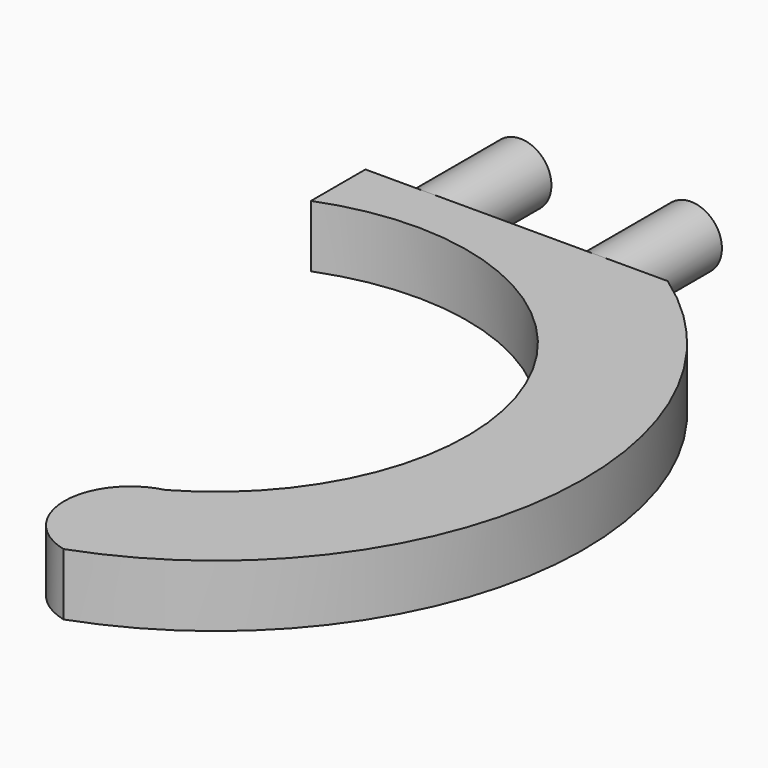
from build123d import *

# Parameters (mm, degrees)
BOX_W                  = 39
BOX_H                  = 3
BOX_DEPTH              = 8
CYLINDER_R             = 4
CYLINDER_DEPTH         = 15
CYLINDER_ROLL_ANGLE    = 90
CYLINDER001_R          = 4
CYLINDER001_DEPTH      = 15
CYLINDER001_ROLL_ANGLE = 90
PAD_DEPTH              = 8


with BuildPart() as base:
    # Box → Box (new body)
    with BuildSketch(Plane(origin=(-8, -18, -4), x_dir=(1, 0, 0), z_dir=(0, 0, 1))):
        with Locations((19.5, 1.5)):
            Rectangle(BOX_W, BOX_H)
    extrude(amount=BOX_DEPTH)


with BuildPart() as pin2:
    # Cylinder → Cylinder (new body)
    with BuildSketch(Plane.XY):
        Circle(CYLINDER_R)
    extrude(amount=CYLINDER_DEPTH)


with BuildPart() as pin2_1:
    # Cylinder roll: moved
    add(pin2.part.rotate(Axis((0, 0, 0), (1, 0, 0)), CYLINDER_ROLL_ANGLE))


with BuildPart() as pin2_2:
    # Cylinder placement: moved
    add(pin2_1.part.moved(Location((22, 0, 0))))


with BuildPart() as pin1:
    # Cylinder001 → Cylinder001 (new body)
    with BuildSketch(Plane.XY):
        Circle(CYLINDER001_R)
    extrude(amount=CYLINDER001_DEPTH)


with BuildPart() as pin1_1:
    # Cylinder001 roll: moved
    add(pin1.part.rotate(Axis((0, 0, 0), (1, 0, 0)), CYLINDER001_ROLL_ANGLE))


with BuildPart() as pin1_2:
    # Cylinder001 placement: moved
    add(pin1_1.part)


with BuildPart() as pad:
    # Sketch001 → Pad (new body)
    with BuildSketch(Plane(origin=(0, -18, -4), x_dir=(1, 0, 0), z_dir=(0, 0, -1))):
        with BuildLine():
            ThreePointArc((31, -3), (50.986116, 42.194698), (20, 80.689712))
            ThreePointArc((20, 80.689712), (13.509552, 72.438184), (20, 64.186656))
            ThreePointArc((-8, 5.8), (33.160574, 21.968159), (20, 64.186656))
            Line((-8, 5.8), (-8, -3))
            Line((-8, -3), (31, -3))
        make_face()
    extrude(amount=-PAD_DEPTH)


solid = Compound([base.part, pin2_2.part, pin1_2.part, pad.part])
